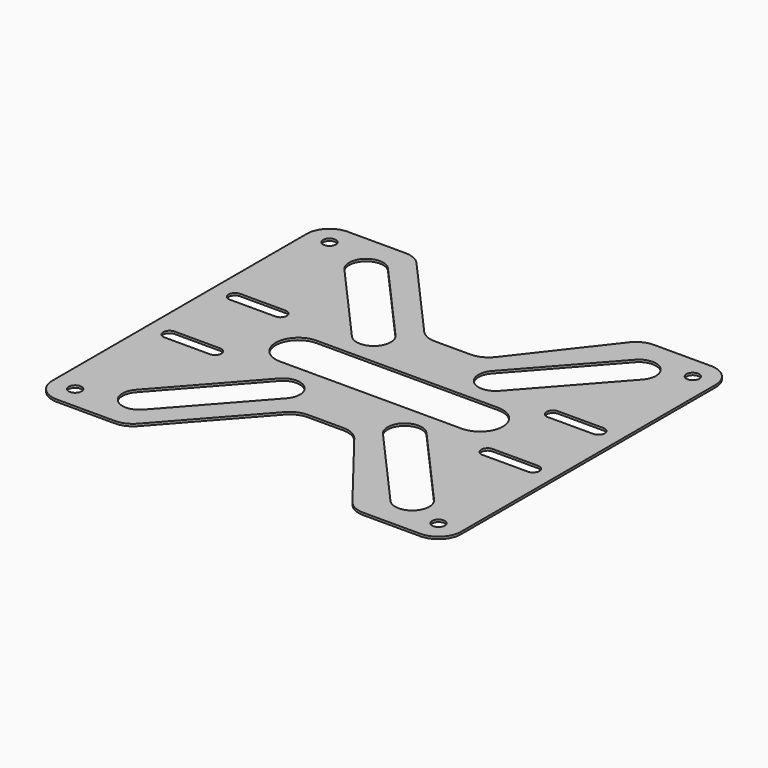
from build123d import *

# Parameters (mm, degrees)
F0_W     = 228.6
F0_H     = 203.2
F1_DEPTH = 1.27
F2_R     = 3.5687
F3_DEPTH = 1.271
F5_DEPTH = 25.4
F6_R     = 12.7
F8_DEPTH = 25.4


with BuildPart() as f1:
    # F0 (on Top) → F1 (new body)
    with BuildSketch(Plane.XY):
        with Locations((114.3, 101.6)):
            Rectangle(F0_W, F0_H)
    extrude(amount=F1_DEPTH)

    # F2 (on face) → F3 (cut, through all)
    with BuildSketch(Plane.XY.offset(1.27)):
        with BuildLine():
            Line((38.1, 128.0287), (12.7, 128.0287))
            ThreePointArc((12.7, 128.0287), (9.1313, 124.46), (12.7, 120.8913))
            Line((12.7, 120.8913), (38.1, 120.8913))
            ThreePointArc((38.1, 120.8913), (41.6687, 124.46), (38.1, 128.0287))
        make_face()
        with BuildLine():
            Line((215.9, 128.0287), (190.5, 128.0287))
            ThreePointArc((190.5, 128.0287), (186.9313, 124.46), (190.5, 120.8913))
            Line((190.5, 120.8913), (215.9, 120.8913))
            ThreePointArc((215.9, 120.8913), (219.4687, 124.46), (215.9, 128.0287))
        make_face()
        with BuildLine():
            Line((38.1, 82.3087), (12.7, 82.3087))
            ThreePointArc((12.7, 82.3087), (9.1313, 78.74), (12.7, 75.1713))
            Line((12.7, 75.1713), (38.1, 75.1713))
            ThreePointArc((38.1, 75.1713), (41.6687, 78.74), (38.1, 82.3087))
        make_face()
        with BuildLine():
            ThreePointArc((190.5, 82.3087), (186.9313, 78.74), (190.5, 75.1713))
            Line((190.5, 75.1713), (215.9, 75.1713))
            ThreePointArc((215.9, 75.1713), (219.4687, 78.74), (215.9, 82.3087))
            Line((215.9, 82.3087), (190.5, 82.3087))
        make_face()
        with Locations((12.7, 190.5)):
            Circle(F2_R)
        with Locations((215.9, 190.5)):
            Circle(F2_R)
        with Locations((12.7, 12.7)):
            Circle(F2_R)
        with Locations((215.9, 12.7)):
            Circle(F2_R)
    extrude(amount=-F3_DEPTH, mode=Mode.SUBTRACT)

    # F4 (on face) → F5 (cut)
    with BuildSketch(Plane.XY.offset(1.27)):
        Polygon((50.8, 203.2), (101.6, 146.05), (133.35, 146.05), (177.8, 203.2), align=None)
        Polygon((133.35, 57.15), (101.6, 57.15), (50.8, 0), (177.8, 0), align=None)
    extrude(amount=-F5_DEPTH, mode=Mode.SUBTRACT)

    # F6
    f6_edges = [f1.edges().sort_by_distance(p)[0] for p in [
        (50.8, 0, 0.635),
        (101.6, 57.15, 0.635),
        (0, 0, 0.635),
        (133.35, 57.15, 0.635),
        (177.8, 0, 0.635),
        (228.6, 0, 0.635),
        (228.6, 203.2, 0.635),
        (177.8, 203.2, 0.635),
        (133.35, 146.05, 0.635),
        (101.6, 146.05, 0.635),
        (50.8, 203.2, 0.635),
        (0, 203.2, 0.635),
    ]]
    fillet(f6_edges, radius=F6_R)

    # F7 (on face) → F8 (cut)
    with BuildSketch(Plane.XY.offset(1.27)):
        with BuildLine():
            Line((90.2719138145, 139.6780655649), (48.0848100488, 187.1385573013))
            ThreePointArc((48.0848100488, 187.1385573013), (34.6376707235, 187.9295654969), (33.8466625279, 174.4824261716))
            Line((33.8466625279, 174.4824261716), (76.0337662936, 127.0219344351))
            ThreePointArc((76.0337662936, 127.0219344351), (89.4809056189, 126.2309262395), (90.2719138145, 139.6780655649))
        make_face()
        with BuildLine():
            ThreePointArc((144.1698608703, 139.6780655649), (144.9608690659, 126.2309262395), (158.4080083912, 127.0219344351))
            Line((158.4080083912, 127.0219344351), (200.5951121569, 174.4824261716))
            ThreePointArc((200.5951121569, 174.4824261716), (199.8041039613, 187.9295654969), (186.356964636, 187.1385573013))
            Line((186.356964636, 187.1385573013), (144.1698608703, 139.6780655649))
        make_face()
        with BuildLine():
            ThreePointArc((90.2719138145, 63.5219344351), (89.4809056189, 76.9690737605), (76.0337662936, 76.1780655649))
            Line((76.0337662936, 76.1780655649), (33.8466625279, 28.7175738284))
            ThreePointArc((33.8466625279, 28.7175738284), (34.6376707235, 15.2704345031), (48.0848100488, 16.0614426987))
            Line((48.0848100488, 16.0614426987), (90.2719138145, 63.5219344351))
        make_face()
        with BuildLine():
            Line((200.5951121569, 28.7175738284), (158.4080083912, 76.1780655649))
            ThreePointArc((158.4080083912, 76.1780655649), (144.9608690659, 76.9690737605), (144.1698608703, 63.5219344351))
            Line((144.1698608703, 63.5219344351), (186.356964636, 16.0614426987))
            ThreePointArc((186.356964636, 16.0614426987), (199.8041039613, 15.2704345031), (200.5951121569, 28.7175738284))
        make_face()
        with BuildLine():
            ThreePointArc((66.4208873424, 114.3), (53.7208873424, 101.6), (66.4208873424, 88.9))
            Line((66.4208873424, 88.9), (117.2208873424, 88.9))
            Line((117.2208873424, 88.9), (168.0208873424, 88.9))
            ThreePointArc((168.0208873424, 88.9), (180.7208873424, 101.6), (168.0208873424, 114.3))
            Line((168.0208873424, 114.3), (117.2208873424, 114.3))
            Line((117.2208873424, 114.3), (66.4208873424, 114.3))
        make_face()
    extrude(amount=-F8_DEPTH, mode=Mode.SUBTRACT)


solid = f1.part
